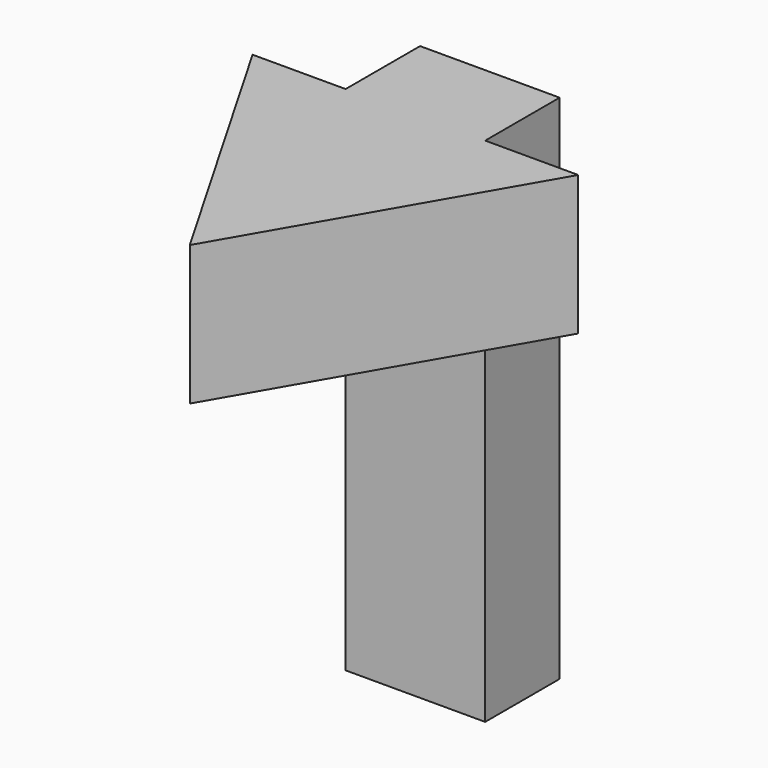
from build123d import *

# Parameters (mm, degrees)
F0_W     = 30
F0_H     = 20
F3_DEPTH = 110
F4_DEPTH = 30


with BuildPart() as f3:
    # F0 (on Top) → F3 (new body)
    with BuildSketch(Plane.XY):
        with Locations((1.746466, 0)):
            Rectangle(F0_W, F0_H)
    extrude(amount=F3_DEPTH)

    # F2 (on offset) → F4 (join)
    with BuildSketch(Plane.XY.offset(110)):
        Polygon((16.746466, -10), (-13.253534, -10), (-33.253534, -10), (1.746466, -70.621778), (36.746466, -10), align=None)
    extrude(amount=-F4_DEPTH)


solid = f3.part
